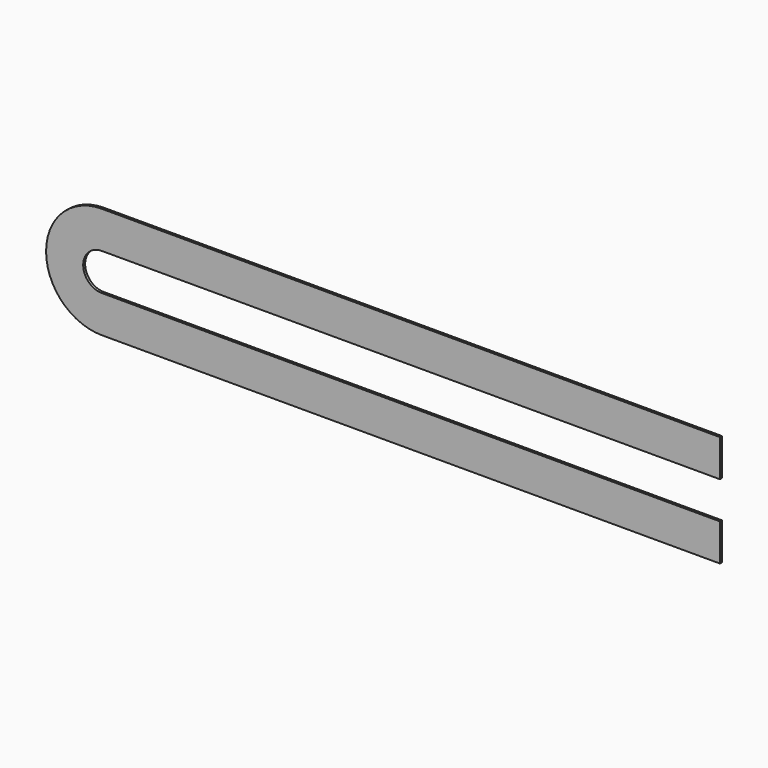
from build123d import *

# Parameters (mm, degrees)
F0_W     = 635
F0_H     = 38.1
F1_DEPTH = 2.54


with BuildPart() as f1:
    # F0 (on Front) → F1 (new body)
    with BuildSketch(Plane.XZ):
        with Locations((234.461717, 29.875163)):
            Rectangle(F0_W, F0_H)
        with BuildLine():
            Line((-83.038283, 10.825163), (-83.038283, 48.925163))
            ThreePointArc((-83.038283, 48.925163), (-140.188286, -8.224839), (-83.038283, -65.374842))
            Line((-83.038283, -65.374842), (-83.038283, -27.274842))
            ThreePointArc((-83.038283, -27.274842), (-102.088286, -8.224839), (-83.038283, 10.825163))
        make_face()
        with Locations((234.461717, -46.324842)):
            Rectangle(F0_W, F0_H)
    extrude(amount=F1_DEPTH)


solid = f1.part
